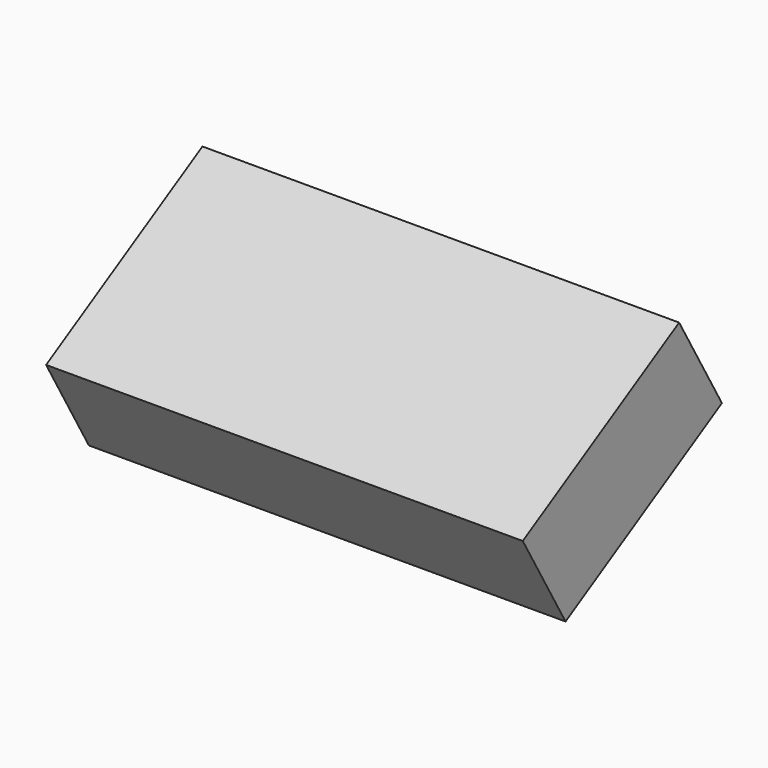
from build123d import *

# Parameters (mm, degrees)
F0_W     = 113.152922
F0_H     = 53.57147
F1_DEPTH = 25.4
F2_ANGLE = 30


with BuildPart() as f1:
    # F0 (on Top) → F1 (new body)
    with BuildSketch(Plane.XY):
        with Locations((-7.619381, 1.593912)):
            Rectangle(F0_W, F0_H)
    extrude(amount=F1_DEPTH)


with BuildPart() as f1_1:
    # F2: moved
    add(f1.part.rotate(Axis((-7.619381, -25.191823, 25.4), (1, 0, 0)), F2_ANGLE))


solid = f1_1.part
